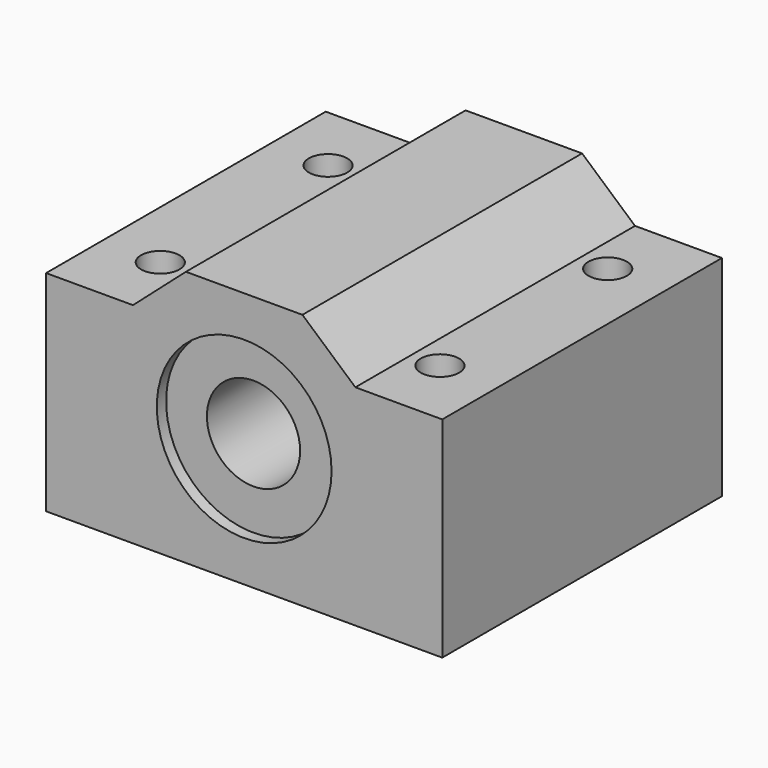
from build123d import *

# Parameters (mm, degrees)
F0_R     = 7.5
F1_DEPTH = 30
F2_START = -1
F0_R_2   = 4
F2_DEPTH = 27
F3_R     = 1.65
F4_DEPTH = 25


with BuildPart() as f1:
    # F0 (on Front) → F1 (new body)
    with BuildSketch(Plane.XZ):
        Polygon((-44, 18), (-44, 0), (-10, 0), (-10, 18), (-17.4580022789, 18), (-22, 22), (-32, 22), (-36.5419977211, 18), align=None)
        with Locations((-27, 11)):
            Circle(F0_R, mode=Mode.SUBTRACT)
    extrude(amount=-F1_DEPTH)

    # F0 (on Front) → F2 (join)
    with BuildSketch(Plane.XZ.offset(F2_START)):
        with Locations((-27, 11)):
            Circle(F0_R)
        with Locations((-27, 11)):
            Circle(F0_R_2, mode=Mode.SUBTRACT)
    extrude(amount=-F2_DEPTH)

    # F3 (on face) → F4 (cut)
    with BuildSketch(Plane(origin=(0, 0, 0), x_dir=(1, 0, 0), z_dir=(0, 0, -1))):
        with Locations((-39, -6)):
            Circle(F3_R)
        with Locations((-15, -6)):
            Circle(F3_R)
        with Locations((-15, -24)):
            Circle(F3_R)
        with Locations((-39, -24)):
            Circle(F3_R)
    extrude(amount=-F4_DEPTH, mode=Mode.SUBTRACT)


solid = f1.part
